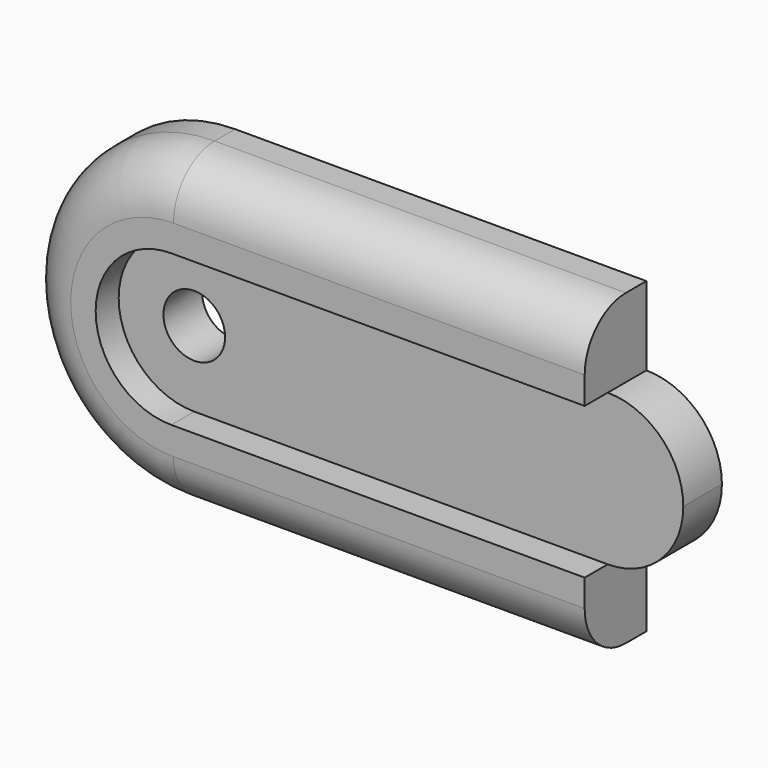
from build123d import *

# Parameters (mm, degrees)
F1_DEPTH = 7.5
F2_DEPTH = 4.7
F3_R     = 5
F4_R     = 3
F5_DEPTH = 25


with BuildPart() as f1:
    # F0 (on Front) → F1 (new body)
    with BuildSketch(Plane.XZ):
        with BuildLine():
            Line((-40.22098, 7.35), (0, 7.35))
            Line((0, 7.35), (0, 15))
            Line((0, 15), (-40, 15))
            ThreePointArc((-40, 15), (-55, 0), (-40, -15))
            Line((-40, -15), (0, -15))
            Line((0, -15), (0, -7.35))
            Line((0, -7.35), (-40.22098, -7.35))
            ThreePointArc((-40.22098, -7.35), (-47.57098, 0), (-40.22098, 7.35))
        make_face()
    extrude(amount=F1_DEPTH)

    # F0 (on Front) → F2 (join)
    with BuildSketch(Plane.XZ):
        with BuildLine():
            ThreePointArc((0, -7.35), (-7.35, 0), (0, 7.35))
            Line((0, 7.35), (-40.22098, 7.35))
            ThreePointArc((-40.22098, 7.35), (-35.023746, 5.197235), (-32.87098, 0))
            ThreePointArc((-32.87098, 0), (-35.023746, -5.197235), (-40.22098, -7.35))
            Line((-40.22098, -7.35), (0, -7.35))
        make_face()
        with BuildLine():
            ThreePointArc((-32.87098, 0), (-35.023746, 5.197235), (-40.22098, 7.35))
            ThreePointArc((-40.22098, 7.35), (-47.57098, 0), (-40.22098, -7.35))
            ThreePointArc((-40.22098, -7.35), (-35.023746, -5.197235), (-32.87098, 0))
        make_face()
        with BuildLine():
            ThreePointArc((0, -7.35), (5.197235, -5.197235), (7.35, 0))
            ThreePointArc((7.35, 0), (5.197235, 5.197235), (0, 7.35))
            Line((0, 7.35), (0, 0))
            Line((0, 0), (0, -7.35))
        make_face()
        with BuildLine():
            Line((0, 0), (0, 7.35))
            ThreePointArc((0, 7.35), (-7.35, 0), (0, -7.35))
            Line((0, -7.35), (0, 0))
        make_face()
    extrude(amount=F2_DEPTH)

    # F3
    f3_edges = [f1.edges().sort_by_distance(p)[0] for p in [
        (-20, -7.5, 15),
    ]]
    fillet(f3_edges, radius=F3_R)

    # F4 (on face) → F5 (cut)
    with BuildSketch(Plane.XZ.offset(4.7)):
        with Locations((-40.22098, 0)):
            Circle(F4_R)
    extrude(amount=-F5_DEPTH, mode=Mode.SUBTRACT)


solid = f1.part
